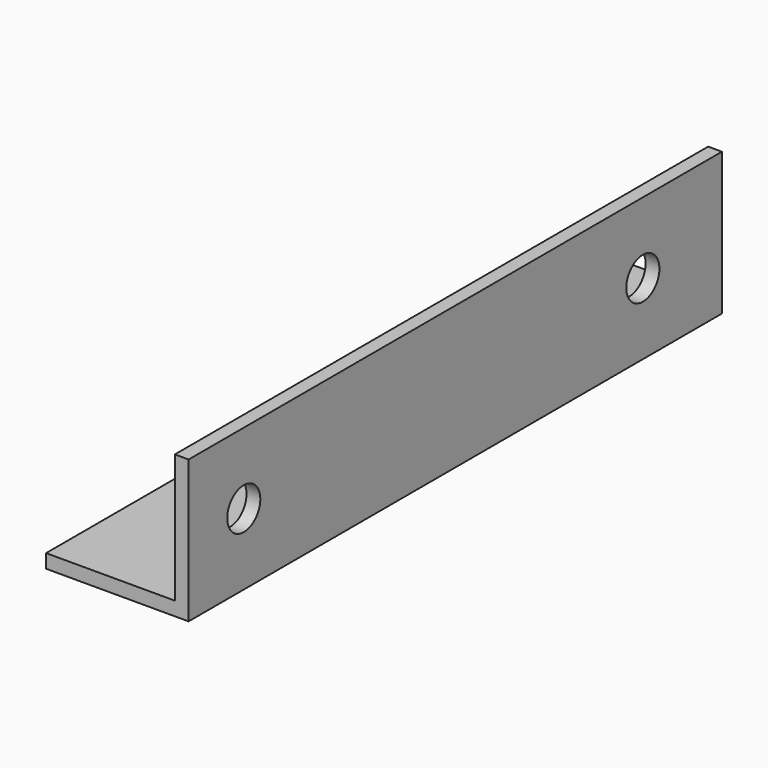
from build123d import *

# Parameters (mm, degrees)
F4_DEPTH = 145
F5_R     = 4.5
F6_DEPTH = 3


with BuildPart() as f4:
    # F3 (on Front) → F4 (new body)
    with BuildSketch(Plane.XZ):
        Polygon((-31, 0), (0, 0), (0, 31), (-3, 31), (-3, 3), (-31, 3), align=None)
    extrude(amount=F4_DEPTH)

    # F5 (on face) → F6 (cut, through all)
    with BuildSketch(Plane.YZ):
        with Locations((-130, 15.5)):
            Circle(F5_R)
        with Locations((-21.5, 15.5)):
            Circle(F5_R)
    extrude(amount=-F6_DEPTH, mode=Mode.SUBTRACT)


solid = f4.part
